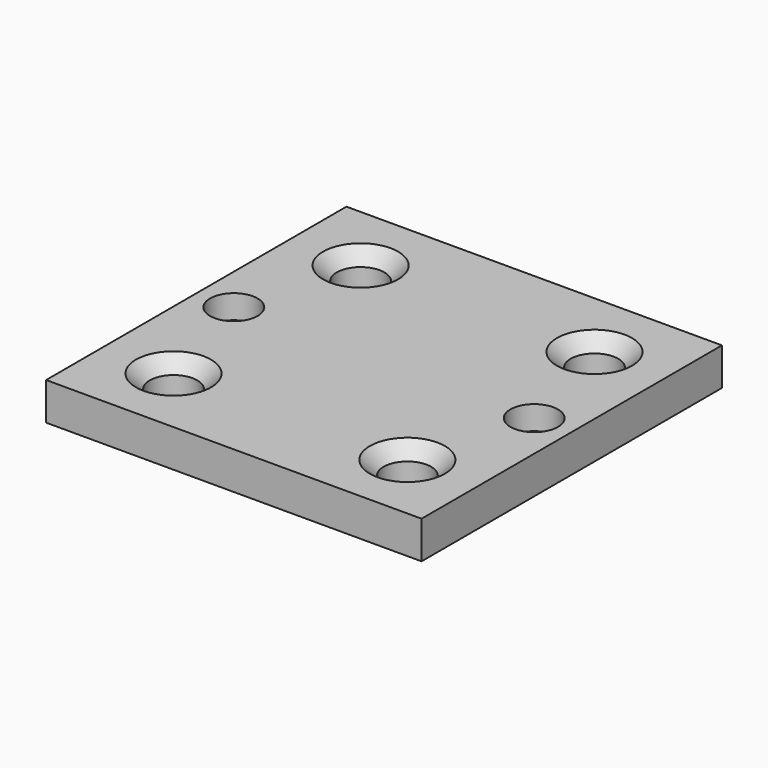
from build123d import *

# Parameters (mm, degrees)
F1_DEPTH       = 3
F2_D           = 3.8
F2_CSINK_D     = 6
F2_CSINK_ANGLE = 90
F4_D           = 3.8
F4_CSINK_D     = 6
F4_CSINK_ANGLE = 90


with BuildPart() as f1:
    # F0 (on Top) → F1 (new body)
    with BuildSketch(Plane.XY):
        Polygon((0, 0), (15, 15), (-15, 15), align=None)
        Polygon((15, -15), (15, 15), (0, 0), align=None)
        Polygon((0, 0), (-15, 15), (-15, -15), align=None)
        Polygon((-15, -15), (15, -15), (0, 0), align=None)
    extrude(amount=-F1_DEPTH)

    # F2 (through all)
    with Locations(Plane.XY):
        with Locations((-9.343146, 9.343146), (9.343146, 9.343146), (-9.343146, -9.343146), (9.343146, -9.343146)):
            CounterSinkHole(F2_D / 2, F2_CSINK_D / 2, counter_sink_angle=F2_CSINK_ANGLE)

    # F4 (through all)
    with Locations(Plane(origin=(0, 0, -3), x_dir=(1, 0, 0), z_dir=(0, 0, -1))):
        with Locations((-12, 0), (12, 0)):
            CounterSinkHole(F4_D / 2, F4_CSINK_D / 2, counter_sink_angle=F4_CSINK_ANGLE)


solid = f1.part
